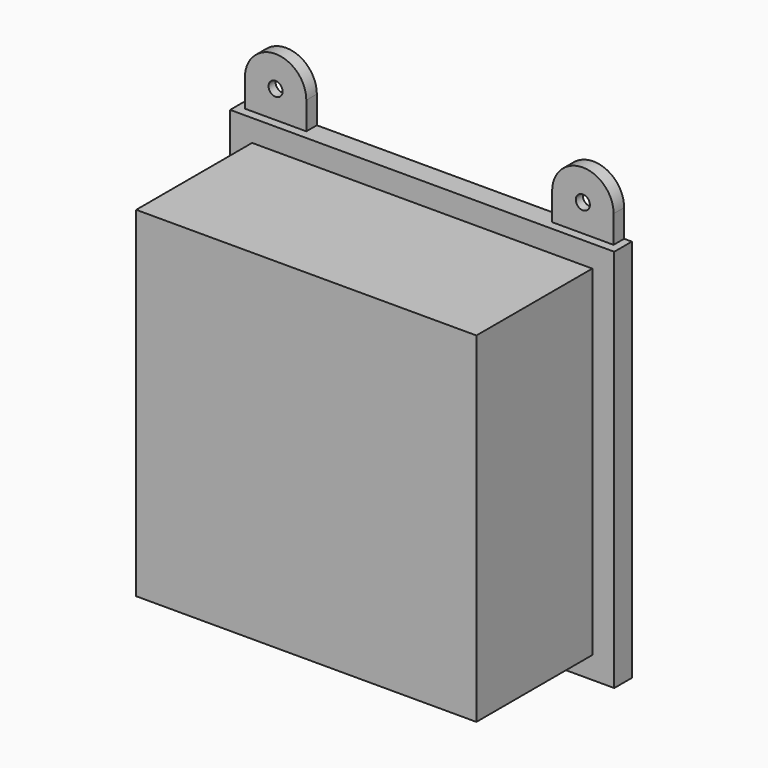
from build123d import *

# Parameters (mm, degrees)
F1_DEPTH       = 3
F2_D           = 3.2
F2_CBORE_D     = 8
F2_CBORE_DEPTH = 1
F4_DEPTH       = 2
F5_W           = 77.5
F5_H           = 77.5
F6_DEPTH       = 33


with BuildPart() as f1:
    # F0 (on Front) → F1 (new body)
    with BuildSketch(Plane.XZ):
        with BuildLine():
            Line((-31.8941220641, 46.416635698), (-31.8941220641, -41.083364302))
            Line((-31.8941220641, -41.083364302), (4.8558779359, -41.083364302))
            Line((4.8558779359, -41.083364302), (4.8558779359, -47.333364302))
            ThreePointArc((4.8558779359, -47.333364302), (11.8558779359, -54.333364302), (18.8558779359, -47.333364302))
            Line((18.8558779359, -47.333364302), (18.8558779359, -41.083364302))
            Line((18.8558779359, -41.083364302), (55.6058779359, -41.083364302))
            Line((55.6058779359, -41.083364302), (55.6058779359, 46.416635698))
            Line((55.6058779359, 46.416635698), (53.8558779359, 46.416635698))
            Line((53.8558779359, 46.416635698), (53.8558779359, 52.666635698))
            ThreePointArc((53.8558779359, 52.666635698), (46.8558779359, 59.666635698), (39.8558779359, 52.666635698))
            Line((39.8558779359, 52.666635698), (39.8558779359, 46.416635698))
            Line((39.8558779359, 46.416635698), (-16.1441220641, 46.416635698))
            Line((-16.1441220641, 46.416635698), (-16.1441220641, 52.666635698))
            ThreePointArc((-16.1441220641, 52.666635698), (-23.1441220641, 59.666635698), (-30.1441220641, 52.666635698))
            Line((-30.1441220641, 52.666635698), (-30.1441220641, 46.416635698))
            Line((-30.1441220641, 46.416635698), (-31.8941220641, 46.416635698))
        make_face()
    extrude(amount=F1_DEPTH)

    # F2 (through all)
    with Locations(Plane(origin=(0, 0, 0), x_dir=(1, 0, 0), z_dir=(0, 1, 0))):
        with Locations((-23.1441220641, -52.666635698), (46.8558779359, -52.666635698), (11.8558779359, 47.333364302)):
            CounterBoreHole(F2_D / 2, F2_CBORE_D / 2, F2_CBORE_DEPTH)

    # F3 (on face) → F4 (join)
    with BuildSketch(Plane.XZ.offset(3)):
        Polygon((-30.1441220641, 46.416635698), (-31.8941220641, 46.416635698), (-31.8941220641, -41.083364302), (4.8558779359, -41.083364302), (18.8558779359, -41.083364302), (55.6058779359, -41.083364302), (55.6058779359, 46.416635698), (53.8558779359, 46.416635698), (39.8558779359, 46.416635698), (-16.1441220641, 46.416635698), align=None)
    extrude(amount=F4_DEPTH)

    # F5 (on face) → F6 (join)
    with BuildSketch(Plane.XZ.offset(5)):
        with Locations((11.8558779359, 2.666635698)):
            Rectangle(F5_W, F5_H)
    extrude(amount=F6_DEPTH)


solid = f1.part
